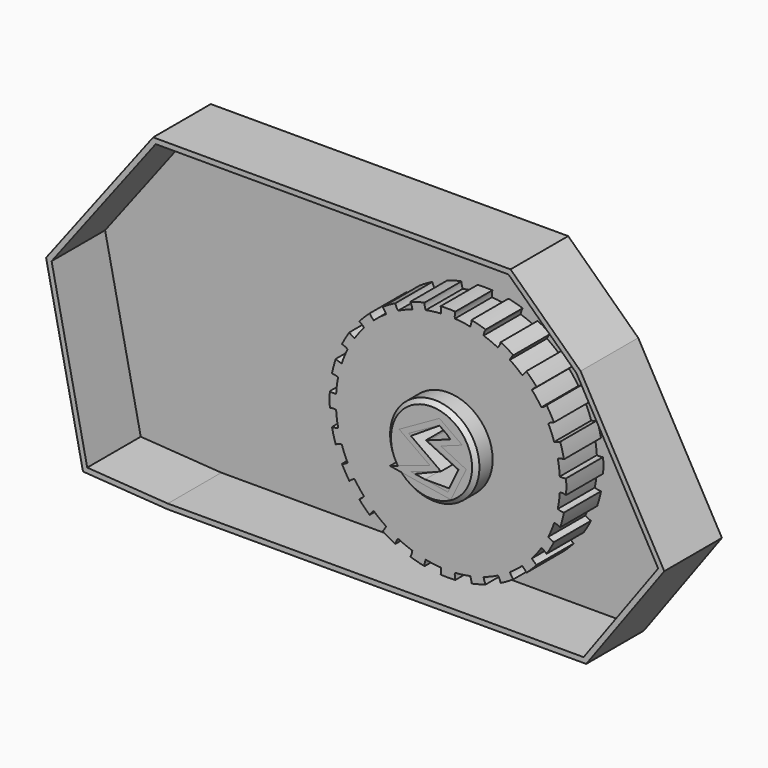
from build123d import *

# Parameters (mm, degrees)
F0_R     = 33.9209141307
F0_R_2   = 21.7005672346
F1_DEPTH = 25
F2_COUNT = 24
F3_DEPTH = 35
F4_SIZE  = 2
F6_DEPTH = 35
F7_T     = -2.5


with BuildPart() as f1:
    # F0 (on Front) → F1 (new body)
    with BuildSketch(Plane.XZ):
        with BuildLine():
            ThreePointArc((56.3020906986, -28.207239113), (41.5292191829, 9.0785672825), (5.2281612157, 26.128560885))
            ThreePointArc((5.2281612157, 26.128560885), (1.8621299345, 26.2327216512), (-1.5039013468, 26.128560885))
            ThreePointArc((-1.5039013468, 26.128560885), (-35.423676461, -67.8743283614), (56.3020906986, -28.207239113))
        make_face()
        with Locations((1.8621299345, -28.207239113)):
            Circle(F0_R, mode=Mode.SUBTRACT)
        with Locations((1.8621299345, -28.207239113)):
            Circle(F0_R)
        with Locations((1.8621299345, -28.207239113)):
            Circle(F0_R_2, mode=Mode.SUBTRACT)
        with BuildLine():
            ThreePointArc((5.2281612157, 26.128560885), (5.1666233343, 27.6679856094), (5.4350895271, 29.1850687634))
            ThreePointArc((5.4350895271, 29.1850687634), (1.8621299345, 29.2961785561), (-1.7108296581, 29.1850687634))
            ThreePointArc((-1.7108296581, 29.1850687634), (-1.4423634654, 27.6679856094), (-1.5039013468, 26.128560885))
            ThreePointArc((-1.5039013468, 26.128560885), (1.8621299345, 26.2327216512), (5.2281612157, 26.128560885))
        make_face()
    extrude(amount=F1_DEPTH)

    # F2: F1 ×24 about axis
    f2_axis = Axis((1.8621299345, 0, -28.207239113), (0, 1, 0))


with BuildPart() as f1_1:
    add(f1.part)
    for i in range(1, F2_COUNT):
        add(f1.part.rotate(f2_axis, i * 360 / F2_COUNT))


with BuildPart() as f3:
    # F0 (on Front) → F3 (new body)
    with BuildSketch(Plane.XZ):
        with Locations((1.8621299345, -28.207239113)):
            Circle(F0_R_2)
        Polygon((-8.6217012327, -24.6229601327), (6.3819669116, -14.9777423359), (11.2045749951, -19.8003513508), (-0.8519442823, -23.8191917308), (14.9554971535, -31.3210278984), (10.4008063603, -40.6983218856), (-8.0858554762, -40.6983218856), (6.3819669116, -34.8040227547), align=None, mode=Mode.SUBTRACT)
    extrude(amount=F3_DEPTH)

    # F4
    f4_edges = [f3.edges().sort_by_distance(p)[0] for p in [
        (-19.838437, -35, -28.207239),
    ]]
    chamfer(f4_edges, length=F4_SIZE)


with BuildPart() as f6:
    # F5 (on Front) → F6 (new body)
    with BuildSketch(Plane.XZ):
        Polygon((-126.3351142406, -94.1533669829), (-74.7106745839, -94.1533669829), (77.0338848233, -94.1533669829), (114.970035851, -42.1378277242), (74.2962285876, 30.2146077156), (40.2710288763, 62.6754313707), (-73.5373944044, 62.6754313707), (-133.3748102188, 62.6754313707), (-185.3996366262, -5.7283090428), (-167.4712002277, -91.3783833385), align=None)
        Polygon((5.5572758429, -15.2719579637), (11.4299505949, -19.4263197482), (0, -23.5567671875), (15.3877837583, -31.0823488981), (9.8004490137, -42.5069406629), (-8.0255214125, -39.6022312343), (6.4390413463, -34.7000658512), (-9.18563359, -23.5598649724), align=None, mode=Mode.SUBTRACT)
    extrude(amount=F6_DEPTH)

    # F7
    f7_openings = [f6.faces().sort_by_distance(p)[0] for p in [
        (-40.561645, -35, -19.297421),
    ]]
    offset(amount=F7_T, openings=f7_openings, kind=Kind.INTERSECTION)


solid = Compound([f1_1.part, f3.part, f6.part])
